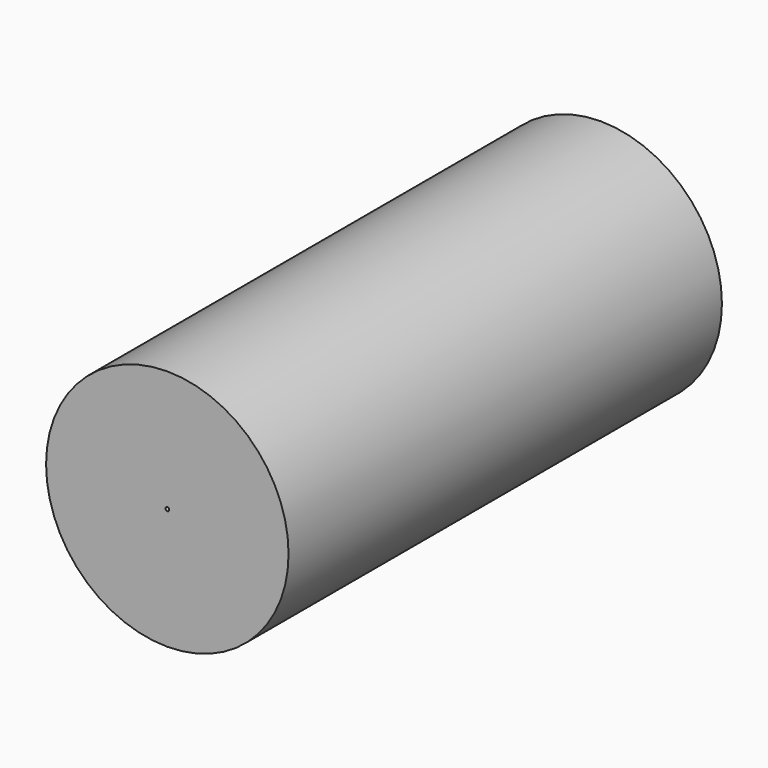
from build123d import *

# Parameters (mm, degrees)
F0_R     = 16.3722286136
F1_DEPTH = 73.152
F3_D     = 0.508
F3_DEPTH = 12.7
F3_TIP   = 0.1526185972
F5_D     = 5.08
F5_DEPTH = 38.1
F5_TIP   = 1.5261859723


with BuildPart() as f1:
    # F0 (on Front) → F1 (new body)
    with BuildSketch(Plane.XZ):
        Circle(F0_R)
    extrude(amount=F1_DEPTH)

    # F3
    with Locations(Plane.XZ.offset(73.152)):
        with Locations((0, 0)):
            Hole(F3_D / 2, depth=F3_DEPTH)
            with Locations((0, 0, -(F3_DEPTH + F3_TIP / 2))):  # 118° drill point
                Cone(0, F3_D / 2, F3_TIP, mode=Mode.SUBTRACT)

    # F5
    with Locations(Plane(origin=(0, 0, 0), x_dir=(1, 0, 0), z_dir=(0, 1, 0))):
        with Locations((-12.3842703179, -5.7045519352), (-5.3632836789, -5.7045519352), (0, -11.5553746), (8.3861500025, -5.7045519352), (-5.3632836789, 0), (4.8756562173, 2.4865996093), (9.556314908, 8.9225051925), (0, 10.9702926129), (-10.3364828974, 6.5821758471)):
            Hole(F5_D / 2, depth=F5_DEPTH)
            with Locations((0, 0, -(F5_DEPTH + F5_TIP / 2))):  # 118° drill point
                Cone(0, F5_D / 2, F5_TIP, mode=Mode.SUBTRACT)


solid = f1.part
